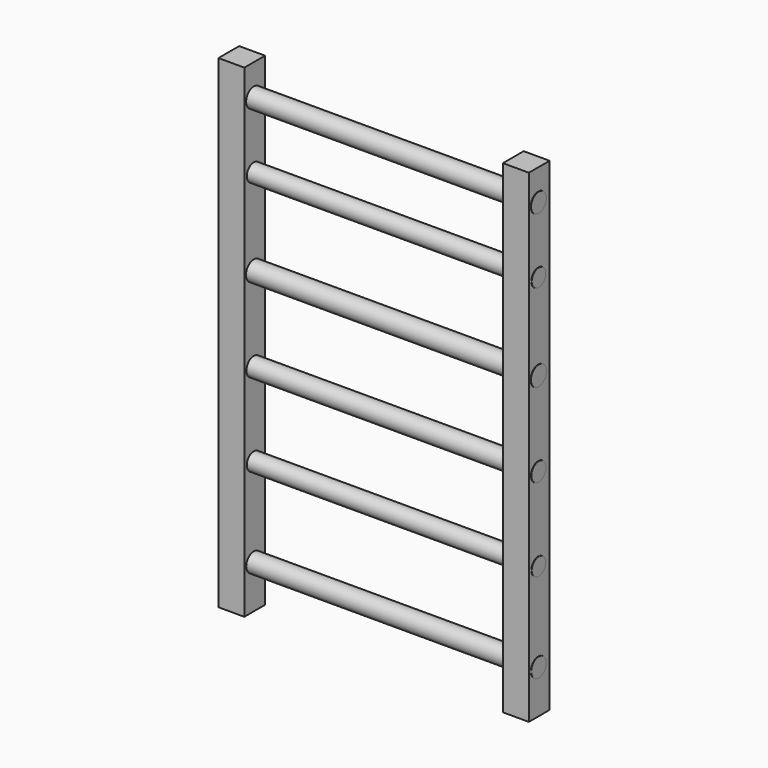
from build123d import *

# Parameters (mm, degrees)
F0_W     = 38.1
F0_H     = 711.2
F1_DEPTH = 38.1
F2_R     = 14.0648438742
F2_R_2   = 12.8526687622
F2_R_3   = 14.3519624693
F2_R_4   = 13.5478861372
F2_R_5   = 12.852653861
F2_R_6   = 13.899417222
F3_DEPTH = 457.2


with BuildPart() as f1:
    # F0 (on Front) → F1 (new body)
    with BuildSketch(Plane.XZ):
        with Locations((-112.7485206842, 291.7568912864)):
            Rectangle(F0_W, F0_H)
    extrude(amount=F1_DEPTH)



with BuildPart() as f1b:
    # F0 (on Front) → F1, piece 2 (new body)
    with BuildSketch(Plane.XZ):
        with Locations((305.7854154587, 291.7568912864)):
            Rectangle(F0_W, F0_H)
    extrude(amount=F1_DEPTH)


with BuildPart() as f1_1:
    add(f1.part)

    add(f1b.part)  # F3 merges F1b
    # F2 (on face) → F3 (join)
    with BuildSketch(Plane(origin=(-131.7985206842, 0, 0), x_dir=(0, -1, 0), z_dir=(-1, 0, 0))):
        with Locations((20.7070652395, 601.8965244293)):
            Circle(F2_R)
        with Locations((20.7070652395, 504.7876238823)):
            Circle(F2_R_2)
        with Locations((20.7070652395, 377.6891231537)):
            Circle(F2_R_3)
        with Locations((20.7070652395, 253.4467875957)):
            Circle(F2_R_4)
        with Locations((20.7070652395, 130.6325346231)):
            Circle(F2_R_5)
        with Locations((20.7070652395, 0)):
            Circle(F2_R_6)
    extrude(amount=-F3_DEPTH)


solid = f1_1.part
